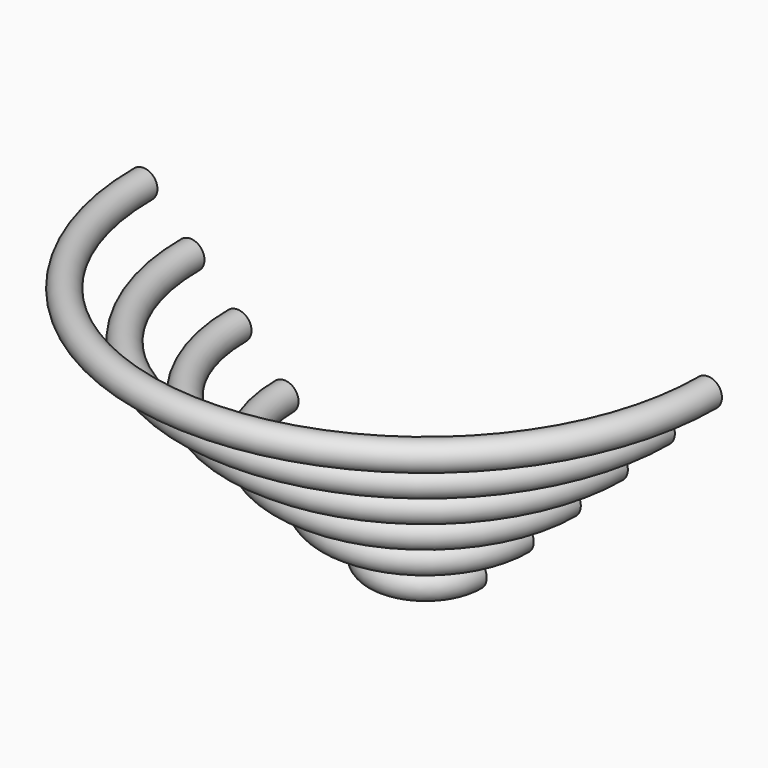
from build123d import *

# Parameters (mm, degrees)
F0_R          = 12.7
F1_ANGLE_BACK = 90
F1_ANGLE      = 180
F2_ANGLE_BACK = 90
F2_ANGLE      = 180
F3_ANGLE_BACK = 90
F3_ANGLE      = 180
F4_ANGLE_BACK = 90
F4_ANGLE      = 180


with BuildPart() as f1:
    # F0 (on Right) → F1 (revolve)
    with BuildSketch(Plane.YZ, mode=Mode.PRIVATE) as f1_sk:
        with Locations((-42.3333333333, -84.6666666667)):
            Circle(F0_R)
    revolve(f1_sk.sketch.rotate(Axis((0, 0, -3.574101096), (0, 0, -1)), -F1_ANGLE_BACK), axis=Axis((0, 0, -3.574101096), (0, 0, -1)), revolution_arc=F1_ANGLE)


with BuildPart() as f2:
    # F0 (on Right) → F2 (revolve)
    with BuildSketch(Plane.YZ, mode=Mode.PRIVATE) as f2_sk:
        with Locations((-84.6666666667, -42.3333333333)):
            Circle(F0_R)
    revolve(f2_sk.sketch.rotate(Axis((0, 0, -3.574101096), (0, 0, -1)), -F2_ANGLE_BACK), axis=Axis((0, 0, -3.574101096), (0, 0, -1)), revolution_arc=F2_ANGLE)


with BuildPart() as f3:
    # F0 (on Right) → F3 (revolve)
    with BuildSketch(Plane.YZ, mode=Mode.PRIVATE) as f3_sk:
        with Locations((-127, 0)):
            Circle(F0_R)
    revolve(f3_sk.sketch.rotate(Axis((0, 0, -3.574101096), (0, 0, -1)), -F3_ANGLE_BACK), axis=Axis((0, 0, -3.574101096), (0, 0, -1)), revolution_arc=F3_ANGLE)


with BuildPart() as f4:
    # F0 (on Right) → F4 (revolve)
    with BuildSketch(Plane.YZ, mode=Mode.PRIVATE) as f4_sk:
        with Locations((-169.3333333333, 42.3333333333)):
            Circle(F0_R)
    revolve(f4_sk.sketch.rotate(Axis((0, 0, -3.574101096), (0, 0, -1)), -F4_ANGLE_BACK), axis=Axis((0, 0, -3.574101096), (0, 0, -1)), revolution_arc=F4_ANGLE)


with BuildPart() as f4b:
    # F0 (on Right) → F4, piece 2 (revolve)
    with BuildSketch(Plane.YZ, mode=Mode.PRIVATE) as f4_sk:
        with Locations((-211.6666666667, 84.6666666667)):
            Circle(F0_R)
    revolve(f4_sk.sketch.rotate(Axis((0, 0, -3.574101096), (0, 0, -1)), -F4_ANGLE_BACK), axis=Axis((0, 0, -3.574101096), (0, 0, -1)), revolution_arc=F4_ANGLE)


with BuildPart() as f4c:
    # F0 (on Right) → F4, piece 3 (revolve)
    with BuildSketch(Plane.YZ, mode=Mode.PRIVATE) as f4_sk:
        with Locations((-254, 127)):
            Circle(F0_R)
    revolve(f4_sk.sketch.rotate(Axis((0, 0, -3.574101096), (0, 0, -1)), -F4_ANGLE_BACK), axis=Axis((0, 0, -3.574101096), (0, 0, -1)), revolution_arc=F4_ANGLE)


solid = Compound([f1.part, f2.part, f3.part, f4.part, f4b.part, f4c.part])
